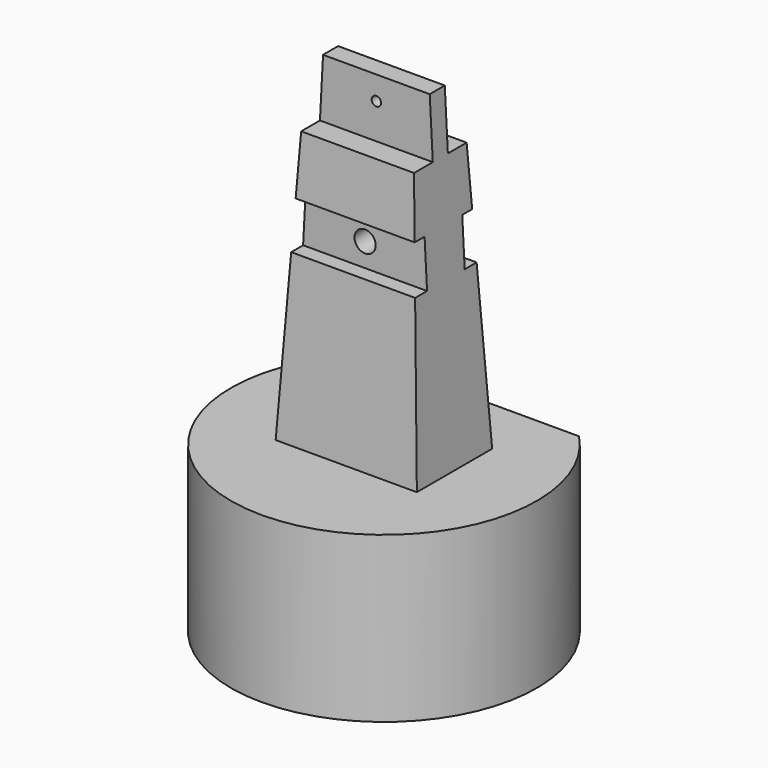
from build123d import *

# Parameters (mm, degrees)
F2_W      = 60
F2_H      = 40
F3_DEPTH  = 140
F3_TAPER  = 3
F4_W      = 30
F4_H      = 20
F5_DEPTH  = 150
F6_R      = 4.5
F6_R_2    = 2
F7_DEPTH  = 150
F8_W      = 30
F8_H      = 25
F9_DEPTH  = 150
F10_W     = 93.8083151965
F10_H     = 20
F11_DEPTH = 70.001


with BuildPart() as f1:
    # F0 (on Right) → F1 (revolve)
    with BuildSketch(Plane.YZ):
        Polygon((-65, 0), (-52, 0), (-50.5, 50), (0, 50), (0, 70), (-65, 70), align=None)
    revolve(axis=Axis((0, 0, 53.9928800981), (0, 0, 1)))

    # F2 (on face) → F3 (join)
    with BuildSketch(Plane.XY.offset(70)):
        Rectangle(F2_W, F2_H)
    extrude(amount=F3_DEPTH, taper=F3_TAPER)

    # F4 (on Right) → F5 (cut, symmetric)
    with BuildSketch(Plane.YZ):
        with Locations((-25, 150)):
            Rectangle(F4_W, F4_H)
        with Locations((25, 150)):
            Rectangle(F4_W, F4_H)
    extrude(amount=F5_DEPTH, both=True, mode=Mode.SUBTRACT)

    # F6 (on face) → F7 (cut, symmetric)
    with BuildSketch(Plane.XZ.offset(10)):
        with Locations((0, 150)):
            Circle(F6_R)
        with Locations((0, 200)):
            Circle(F6_R_2)
    extrude(amount=F7_DEPTH, both=True, mode=Mode.SUBTRACT)

    # F8 (on Right) → F9 (cut, symmetric)
    with BuildSketch(Plane.YZ):
        with Locations((-19, 197.5)):
            Rectangle(F8_W, F8_H)
        with Locations((19, 197.5)):
            Rectangle(F8_W, F8_H)
    extrude(amount=F9_DEPTH, both=True, mode=Mode.SUBTRACT)

    # F10 (on face) → F11 (cut, through all)
    with BuildSketch(Plane.XY.offset(70)):
        with Locations((0, 55)):
            Rectangle(F10_W, F10_H)
    extrude(amount=-F11_DEPTH, mode=Mode.SUBTRACT)


solid = f1.part
